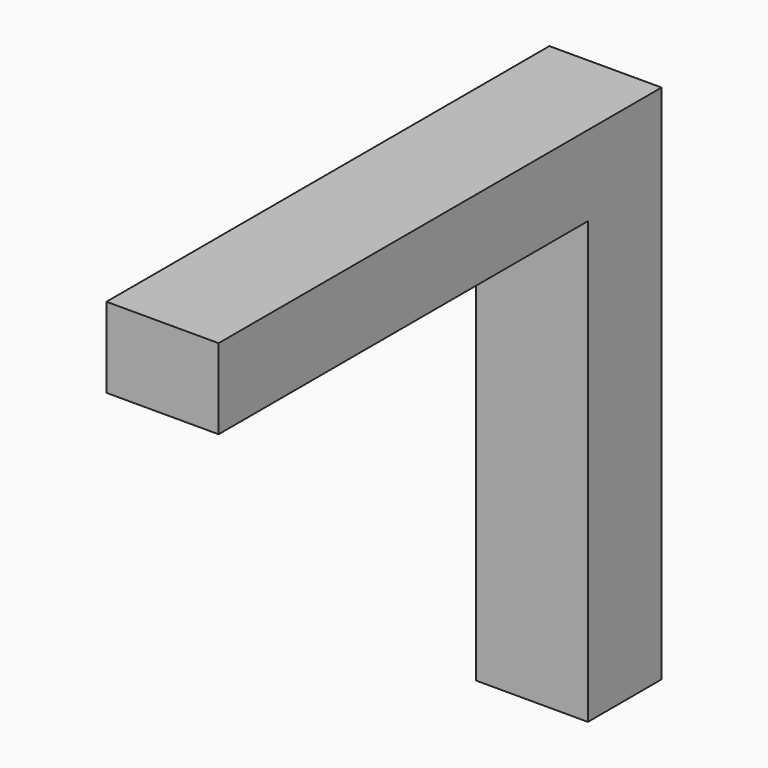
from build123d import *

# Parameters (mm, degrees)
F0_W     = 29.2758359574
F0_H     = 5.0876662135
F0_W_2   = 5.8360383846
F0_H_2   = 27.9592750594
F1_DEPTH = 7.112


with BuildPart() as f1:
    # F0 (on Right) → F1 (new body)
    with BuildSketch(Plane.YZ):
        with Locations((-20.4739563633, 35.8995459974)):
            Rectangle(F0_W, F0_H)
        with Locations((-2.9180191923, 35.8995459974)):
            Rectangle(F0_W_2, F0_H)
        with Locations((-2.9180191923, 19.3760753609)):
            Rectangle(F0_W_2, F0_H_2)
    extrude(amount=F1_DEPTH)


solid = f1.part
